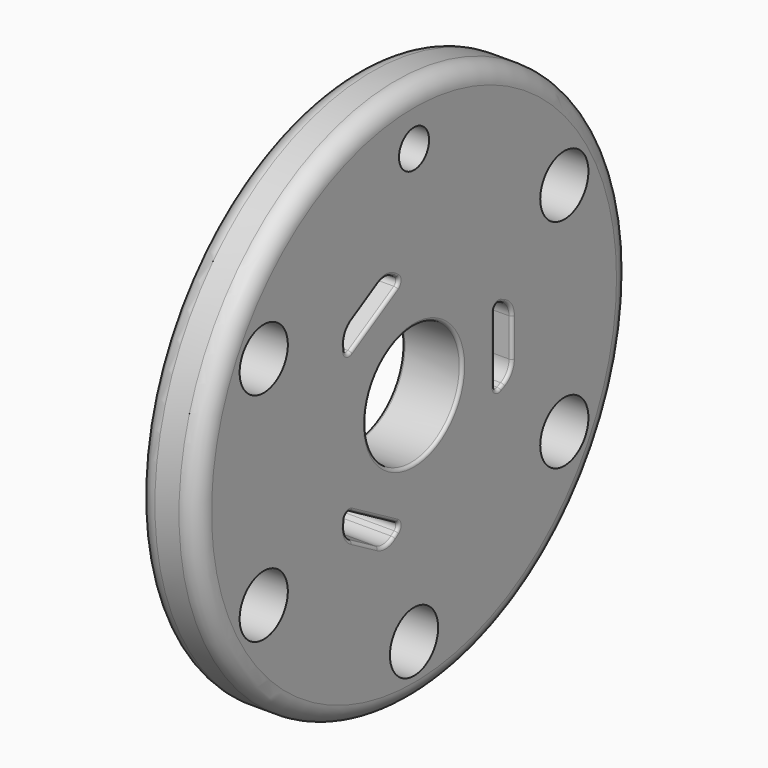
from build123d import *

# Parameters (mm, degrees)
F2_R     = 5
F3_DEPTH = 10
F2_R_2   = 3.125
F4_DEPTH = 10
F6_DEPTH = 10
F7_R     = 0.5


with BuildPart() as f1:
    # F0 (on Top) → F1 (revolve)
    with BuildSketch(Plane.XY):
        with BuildLine():
            Line((0, 42), (0, 10))
            Line((0, 10), (10, 10))
            Line((10, 10), (10, 42))
            ThreePointArc((10, 42), (9.12132, 44.12132), (7, 45))
            Line((7, 45), (3, 45))
            ThreePointArc((3, 45), (0.87868, 44.12132), (0, 42))
        make_face()
    revolve(axis=Axis((32.794026, 0, 0), (1, 0, 0)))

    # F2 (on face) → F3 (cut, through all)
    with BuildSketch(Plane(origin=(0, 0, 0), x_dir=(0, -1, 0), z_dir=(-1, 0, 0))):
        with Locations((-31.176915, 18)):
            Circle(F2_R)
        with Locations((-31.176915, -18)):
            Circle(F2_R)
        with Locations((0, -36)):
            Circle(F2_R)
        with Locations((31.176915, -18)):
            Circle(F2_R)
        with Locations((31.176915, 18)):
            Circle(F2_R)
    extrude(amount=-F3_DEPTH, mode=Mode.SUBTRACT)

    # F2 (on face) → F4 (cut, through all)
    with BuildSketch(Plane(origin=(0, 0, 0), x_dir=(0, -1, 0), z_dir=(-1, 0, 0))):
        with Locations((0, 36)):
            Circle(F2_R_2)
    extrude(amount=-F4_DEPTH, mode=Mode.SUBTRACT)

    # F5 (on face) → F6 (cut, through all)
    with BuildSketch(Plane(origin=(0, 0, 0), x_dir=(0, -1, 0), z_dir=(-1, 0, 0))):
        with BuildLine():
            Line((-20.324563, 3.156843), (-20.324563, -3.156843))
            ThreePointArc((-20.324563, -3.156843), (-19.848976, -4.77775), (-18.573004, -5.884735))
            Line((-18.573004, -5.884735), (-17.820291, -6.22922))
            ThreePointArc((-17.820291, -6.22922), (-17.055132, -6.174959), (-16.687373, -5.501782))
            Line((-16.687373, -5.501782), (-16.687373, 5.501782))
            ThreePointArc((-16.687373, 5.501782), (-17.055132, 6.174959), (-17.820291, 6.22922))
            Line((-17.820291, 6.22922), (-18.573004, 5.884735))
            ThreePointArc((-18.573004, 5.884735), (-19.848976, 4.77775), (-20.324563, 3.156843))
        make_face()
        with BuildLine():
            ThreePointArc((3.515483, 18.547435), (3.179895, 17.857657), (3.579004, 17.20258))
            Line((3.579004, 17.20258), (13.10837, 11.700798))
            ThreePointArc((13.10837, 11.700798), (13.875237, 11.682698), (14.304808, 12.318215))
            Line((14.304808, 12.318215), (14.382832, 13.142325))
            ThreePointArc((14.382832, 13.142325), (14.062141, 14.800843), (12.896188, 16.023167))
            Line((12.896188, 16.023167), (7.428375, 19.18001))
            ThreePointArc((7.428375, 19.18001), (5.786835, 19.578593), (4.190172, 19.027061))
            Line((4.190172, 19.027061), (3.515483, 18.547435))
        make_face()
        with BuildLine():
            Line((7.428375, -19.18001), (12.896188, -16.023167))
            ThreePointArc((12.896188, -16.023167), (14.062141, -14.800843), (14.382832, -13.142325))
            Line((14.382832, -13.142325), (14.304808, -12.318215))
            ThreePointArc((14.304808, -12.318215), (13.875237, -11.682698), (13.10837, -11.700798))
            Line((13.10837, -11.700798), (3.579004, -17.20258))
            ThreePointArc((3.579004, -17.20258), (3.179895, -17.857657), (3.515483, -18.547435))
            Line((3.515483, -18.547435), (4.190172, -19.027061))
            ThreePointArc((4.190172, -19.027061), (5.786835, -19.578593), (7.428375, -19.18001))
        make_face()
    extrude(amount=-F6_DEPTH, mode=Mode.SUBTRACT)

    # F7
    f7_edges = [f1.edges().sort_by_distance(p)[0] for p in [
        (0, -10, 0),
        (10, -10, 0),
        (5, 10, 0),
        (5, 20.324563, 3.156843),
        (5, 20.324563, -3.156843),
        (0, 20.324563, 0),
        (10, 20.324563, 0),
        (5, -12.896188, 16.023167),
        (5, -7.428375, 19.18001),
        (0, -10.162282, 17.601588),
        (10, -10.162282, 17.601588),
        (5, -13.10837, -11.700798),
        (5, -3.579004, -17.20258),
        (0, -8.343687, -14.451689),
        (10, -8.343687, -14.451689),
    ]]
    fillet(f7_edges, radius=F7_R)


solid = f1.part
